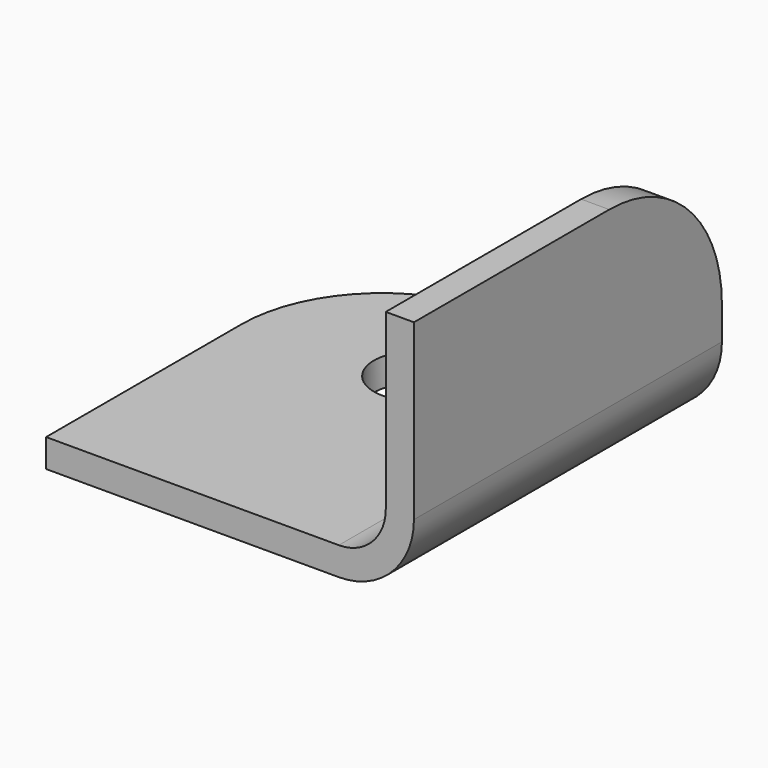
from build123d import *

# Parameters (mm, degrees)
F1_DEPTH = 82
F2_R     = 9
F3_DEPTH = 25
F4_R     = 30


with BuildPart() as f1:
    # F0 (on Front) → F1 (new body)
    with BuildSketch(Plane.XZ):
        with BuildLine():
            Line((-58.036997, -9.244789), (-58.036997, -15.244789))
            Line((-58.036997, -15.244789), (4.315235, -15.244789))
            ThreePointArc((4.315235, -15.244789), (15.628944, -10.558497), (20.315235, 0.755211))
            Line((20.315235, 0.755211), (20.315235, 37.755211))
            Line((20.315235, 37.755211), (14.315235, 37.755211))
            Line((14.315235, 37.755211), (14.315235, 0.755211))
            ThreePointArc((14.315235, 0.755211), (11.386303, -6.315856), (4.315235, -9.244789))
            Line((4.315235, -9.244789), (-58.036997, -9.244789))
        make_face()
    extrude(amount=F1_DEPTH)

    # F2 (on face) → F3 (cut)
    with BuildSketch(Plane(origin=(0, 0, -15.244789), x_dir=(1, 0, 0), z_dir=(0, 0, -1))):
        with Locations((-23.684765, 26.4)):
            Circle(F2_R)
    extrude(amount=-F3_DEPTH, mode=Mode.SUBTRACT)

    # F4
    f4_edges = [f1.edges().sort_by_distance(p)[0] for p in [
        (-58.036997, 0, -12.244789),
        (17.315235, 0, 37.755211),
    ]]
    fillet(f4_edges, radius=F4_R)


solid = f1.part
